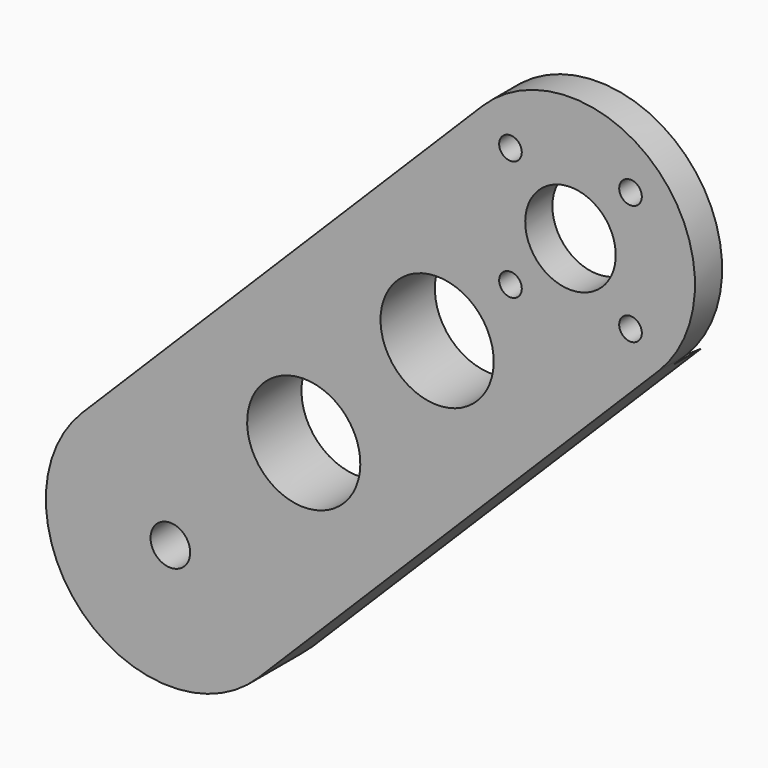
from build123d import *

# Parameters (mm, degrees)
CYLINDER020_R             = 11.1
CYLINDER020_DEPTH         = 26
CYLINDER019_R             = 4
CYLINDER019_DEPTH         = 43
CYLINDER021_R             = 1
CYLINDER021_DEPTH         = 31
CYLINDER024_R             = 1
CYLINDER024_DEPTH         = 31
CYLINDER023_R             = 1
CYLINDER023_DEPTH         = 31
CYLINDER022_R             = 1
CYLINDER022_DEPTH         = 31
FUSION002_ROLL_ANGLE      = -90
FUSION003_PLACEMENT_ANGLE = 180
SKETCH_R                  = 5
SKETCH_R_2                = 1.75
PAD_DEPTH                 = 6
CUT_PITCH_ANGLE           = 90
CLONE019_PITCH_ANGLE      = -45


with BuildPart() as cylinder141:
    # Cylinder020 → Cylinder020 (new body)
    with BuildSketch(Plane(origin=(-3, 71, 73), x_dir=(0, 0, 1), z_dir=(0, -1, 0))):
        Circle(CYLINDER020_R)
    extrude(amount=CYLINDER020_DEPTH)


with BuildPart() as fusion001:
    # Cylinder019 → Cylinder019 (new body)
    with BuildSketch(Plane(origin=(-3, 66, 73), x_dir=(0, 0, 1), z_dir=(0, -1, 0))):
        Circle(CYLINDER019_R)
    extrude(amount=CYLINDER019_DEPTH)

    # Fusion001: union Cylinder141
    add(cylinder141.part)


with BuildPart() as cylinder096:
    # Cylinder021 → Cylinder021 (new body)
    with BuildSketch(Plane(origin=(-7.5, -11, 132), x_dir=(1, 0, 0), z_dir=(0, 0, 1))):
        Circle(CYLINDER021_R)
    extrude(amount=CYLINDER021_DEPTH)


with BuildPart() as cylinder146:
    # Cylinder024 → Cylinder024 (new body)
    with BuildSketch(Plane(origin=(0, -3.5, 132), x_dir=(1, 0, 0), z_dir=(0, 0, 1))):
        Circle(CYLINDER024_R)
    extrude(amount=CYLINDER024_DEPTH)


with BuildPart() as cylinder145:
    # Cylinder023 → Cylinder023 (new body)
    with BuildSketch(Plane(origin=(7.5, -11, 132), x_dir=(1, 0, 0), z_dir=(0, 0, 1))):
        Circle(CYLINDER023_R)
    extrude(amount=CYLINDER023_DEPTH)


with BuildPart() as fusion003:
    # Cylinder022 → Cylinder022 (new body)
    with BuildSketch(Plane(origin=(0, -18.5, 132), x_dir=(1, 0, 0), z_dir=(0, 0, 1))):
        Circle(CYLINDER022_R)
    extrude(amount=CYLINDER022_DEPTH)

    # Fusion002: union Cylinder096, Cylinder146, Cylinder145
    add(cylinder096.part)
    add(cylinder146.part)
    add(cylinder145.part)


with BuildPart() as fusion003_1:
    # Fusion002 roll: moved
    add(fusion003.part.rotate(Axis((0, 0, 0), (1, 0, 0)), FUSION002_ROLL_ANGLE))


with BuildPart() as fusion003_2:
    # Fusion002 placement: moved
    add(fusion003_1.part.moved(Location((-3, -97.5, 62))))

    # Fusion003: union Fusion001
    add(fusion001.part)


with BuildPart() as fusion003_3:
    # Fusion003 placement: moved
    add(fusion003_2.part.moved(Location((-0.5, 88, -87))).rotate(Axis((-0.5, 88, -87), (0, 0, 1)), FUSION003_PLACEMENT_ANGLE))


with BuildPart() as cut:
    # Sketch → Pad (new body)
    with BuildSketch(Plane(origin=(-11.5, 40, -16.5), x_dir=(0, 0, -1), z_dir=(0, 1, 0))):
        with BuildLine():
            Line((-2.5, -3), (47.5, -3))
            ThreePointArc((47.5, -25), (58.5, -14), (47.5, -3))
            Line((-2.5, -25), (47.5, -25))
            ThreePointArc((-2.5, -3), (-13.5, -14), (-2.5, -25))
        make_face()
        with Locations((14.166667, -14)):
            Circle(SKETCH_R, mode=Mode.SUBTRACT)
        with Locations((30.833333, -14)):
            Circle(SKETCH_R, mode=Mode.SUBTRACT)
        with Locations((47.5, -14)):
            Circle(SKETCH_R_2, mode=Mode.SUBTRACT)
    extrude(amount=PAD_DEPTH)

    # Cut: cut Fusion003
    add(fusion003_3.part, mode=Mode.SUBTRACT)


with BuildPart() as cut_1:
    # Cut pitch: moved
    add(cut.part.rotate(Axis((0, 0, 0), (0, 1, 0)), CUT_PITCH_ANGLE))


with BuildPart() as cut_2:
    # Cut placement: moved
    add(cut_1.part.moved(Location((16.5, -87, -15))))


with BuildPart() as clone019:
    # Part__Mirroring029: instance of Cut
    add(cut_2.part.mirror(Plane(origin=(0, 0, 0), x_dir=(1, 0, 0), z_dir=(0, 1, 0))))


with BuildPart() as clone019_1:
    # Clone019 pitch: moved
    add(clone019.part.rotate(Axis((0, 0, 0), (0, 1, 0)), CLONE019_PITCH_ANGLE))


with BuildPart() as clone019_2:
    # Clone019 placement: moved
    add(clone019_1.part.moved(Location((-11.642136, 0, -6.893398))))


solid = clone019_2.part
